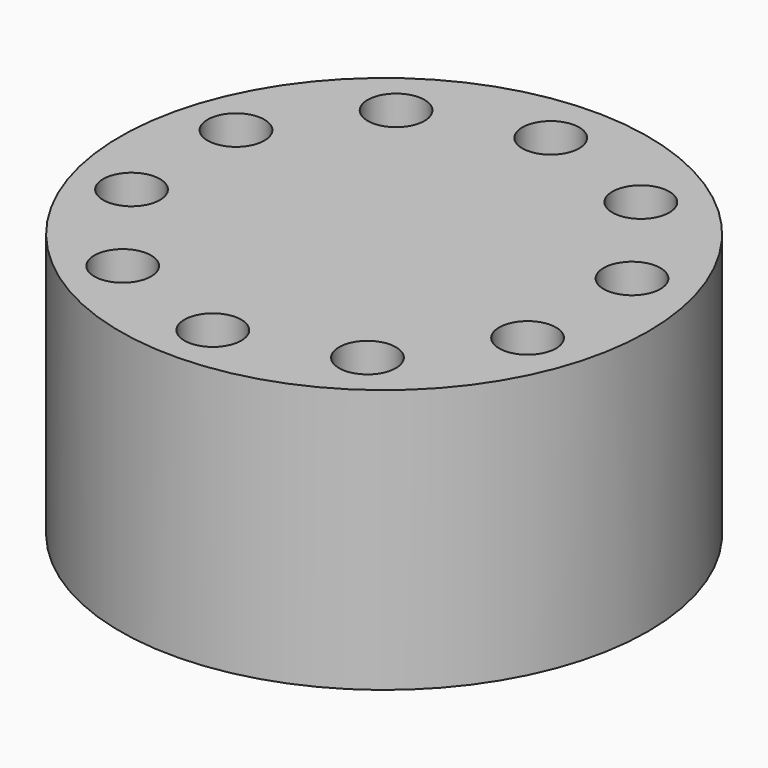
from build123d import *

# Parameters (mm, degrees)
F0_R     = 35
F0_R_2   = 3.771368
F1_DEPTH = 35
F2_DEPTH = 25


with BuildPart() as f1:
    # F0 (on Top) → F1 (new body)
    with BuildSketch(Plane.XY):
        Circle(F0_R)
        with Locations((-0.389893, -27.902429)):
            Circle(F0_R_2, mode=Mode.SUBTRACT)
        with Locations((-16.670046, -22.486003)):
            Circle(F0_R_2, mode=Mode.SUBTRACT)
        with Locations((-26.65727, -8.534788)):
            Circle(F0_R_2, mode=Mode.SUBTRACT)
        with Locations((15.964723, -22.715176)):
            Circle(F0_R_2, mode=Mode.SUBTRACT)
        with Locations((26.146894, -8.905599)):
            Circle(F0_R_2, mode=Mode.SUBTRACT)
        with Locations((-26.536787, 8.622325)):
            Circle(F0_R_2, mode=Mode.SUBTRACT)
        with Locations((-16.354616, 22.431902)):
            Circle(F0_R_2, mode=Mode.SUBTRACT)
        with Locations((26.267377, 8.251514)):
            Circle(F0_R_2, mode=Mode.SUBTRACT)
        with Locations((16.280153, 22.202729)):
            Circle(F0_R_2, mode=Mode.SUBTRACT)
        with Locations((0, 27.619155)):
            Circle(F0_R_2, mode=Mode.SUBTRACT)
    extrude(amount=F1_DEPTH)

    # F0 (on Top) → F2 (join)
    with BuildSketch(Plane.XY):
        Circle(F0_R)
        with Locations((-0.389893, -27.902429)):
            Circle(F0_R_2, mode=Mode.SUBTRACT)
        with Locations((-16.670046, -22.486003)):
            Circle(F0_R_2, mode=Mode.SUBTRACT)
        with Locations((-26.65727, -8.534788)):
            Circle(F0_R_2, mode=Mode.SUBTRACT)
        with Locations((15.964723, -22.715176)):
            Circle(F0_R_2, mode=Mode.SUBTRACT)
        with Locations((26.146894, -8.905599)):
            Circle(F0_R_2, mode=Mode.SUBTRACT)
        with Locations((-26.536787, 8.622325)):
            Circle(F0_R_2, mode=Mode.SUBTRACT)
        with Locations((-16.354616, 22.431902)):
            Circle(F0_R_2, mode=Mode.SUBTRACT)
        with Locations((26.267377, 8.251514)):
            Circle(F0_R_2, mode=Mode.SUBTRACT)
        with Locations((16.280153, 22.202729)):
            Circle(F0_R_2, mode=Mode.SUBTRACT)
        with Locations((0, 27.619155)):
            Circle(F0_R_2, mode=Mode.SUBTRACT)
    extrude(amount=F2_DEPTH)


solid = f1.part
